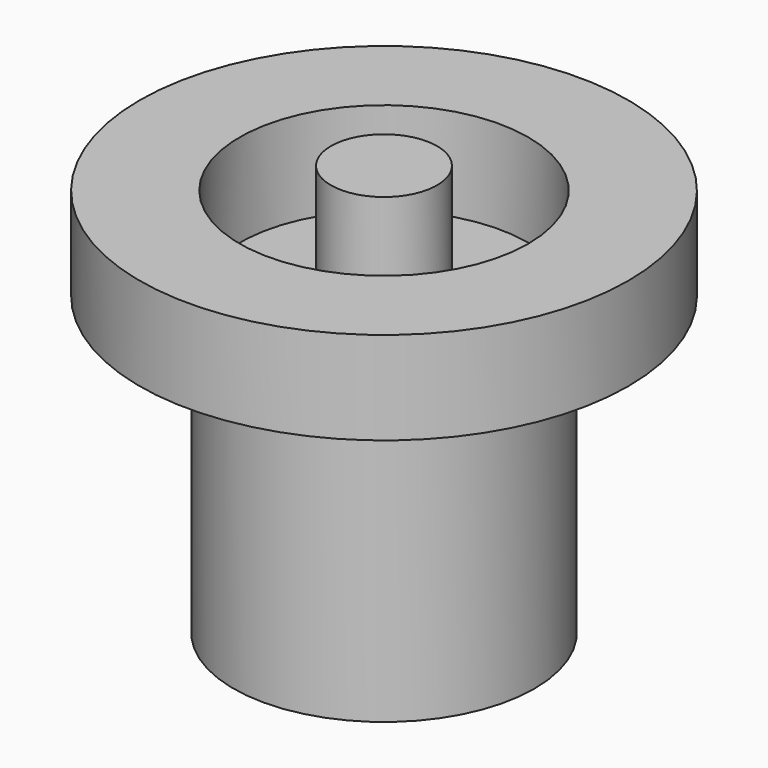
from build123d import *

# Parameters (mm, degrees)
F0_R     = 25.4
F0_R_2   = 14.9987
F1_DEPTH = 9.652


with BuildPart() as f1:
    # F0 (on Top) → F1 (new body)
    with BuildSketch(Plane.XY):
        Circle(F0_R)
        Circle(F0_R_2, mode=Mode.SUBTRACT)
        Circle(F0_R)
        Circle(F0_R_2, mode=Mode.SUBTRACT)
    extrude(amount=F1_DEPTH)

    # F2 (on Front) → F3 (revolve)
    with BuildSketch(Plane.XZ):
        Polygon((0, -30.841293), (0, 11.922672), (-5.517931, 11.922672), (-5.517931, 0), (-15.651142, 0), (-15.651142, -30.841293), align=None)
    revolve(axis=Axis((0, 0, -9.45931), (0, 0, 1)))


solid = f1.part
